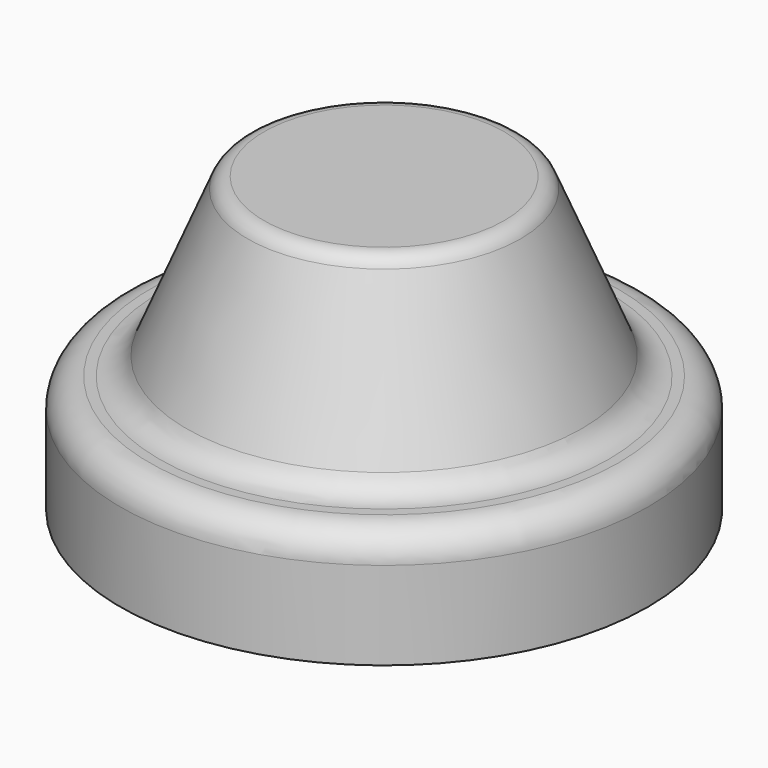
from build123d import *


with BuildPart() as f1:
    # F0 (on Front) → F1 (revolve)
    with BuildSketch(Plane.XZ):
        with BuildLine():
            Line((20.5, 50), (0, 50))
            Line((0, 50), (0, 0))
            Line((0, 0), (45, 0))
            Line((45, 0), (45, 15))
            ThreePointArc((45, 15), (43.535534, 18.535534), (40, 20))
            Line((40, 20), (38.333333, 20))
            ThreePointArc((38.333333, 20), (35.559832, 20.839749), (33.717949, 23.076923))
            Line((33.717949, 23.076923), (23.269231, 48.153846))
            ThreePointArc((23.269231, 48.153846), (22.164101, 49.496151), (20.5, 50))
        make_face()
    revolve(axis=Axis((0, 0, 11.951942), (0, 0, -1)))


solid = f1.part
